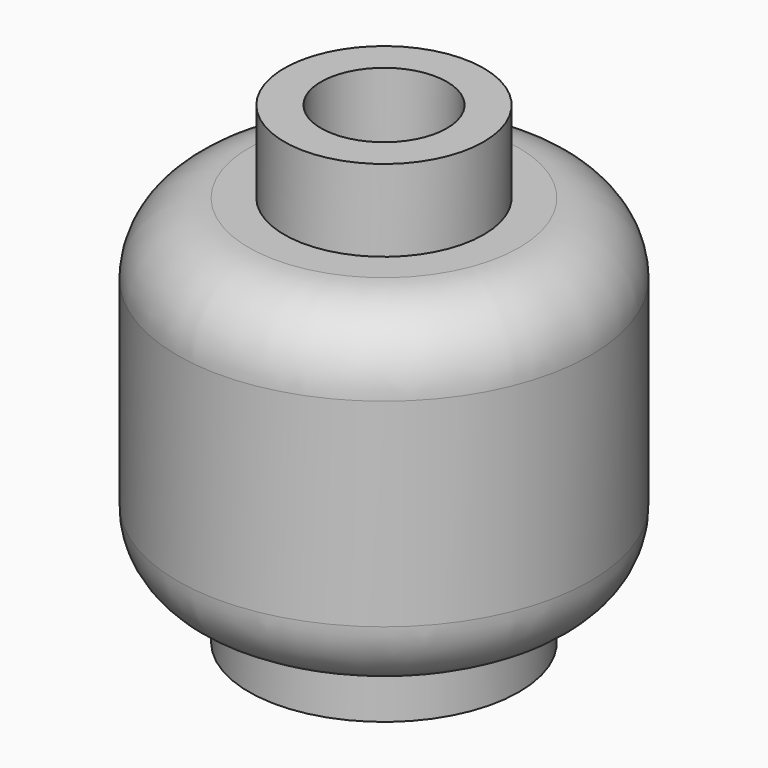
from build123d import *


with BuildPart() as f1:
    # F0 (on Front) → F1 (revolve)
    with BuildSketch(Plane.XZ):
        with BuildLine():
            Line((2.44, 0), (1.54, 0))
            Line((1.54, 0), (1.54, -2))
            Line((1.54, -2), (0, -2))
            Line((0, -2), (0, -10.36))
            Line((0, -10.36), (2.405, -10.36))
            Line((2.405, -10.36), (2.405, -11.57))
            Line((2.405, -11.57), (3.305, -11.57))
            Line((3.305, -11.57), (3.305, -10.36))
            ThreePointArc((3.305, -10.36), (4.542437, -9.847437), (5.055, -8.61))
            Line((5.055, -8.61), (5.055, -3.75))
            ThreePointArc((5.055, -3.75), (4.542437, -2.512563), (3.305, -2))
            Line((3.305, -2), (2.44, -2))
            Line((2.44, -2), (2.44, 0))
        make_face()
    revolve(axis=Axis((0, 0, 28.045654), (0, 0, 1)))


solid = f1.part
